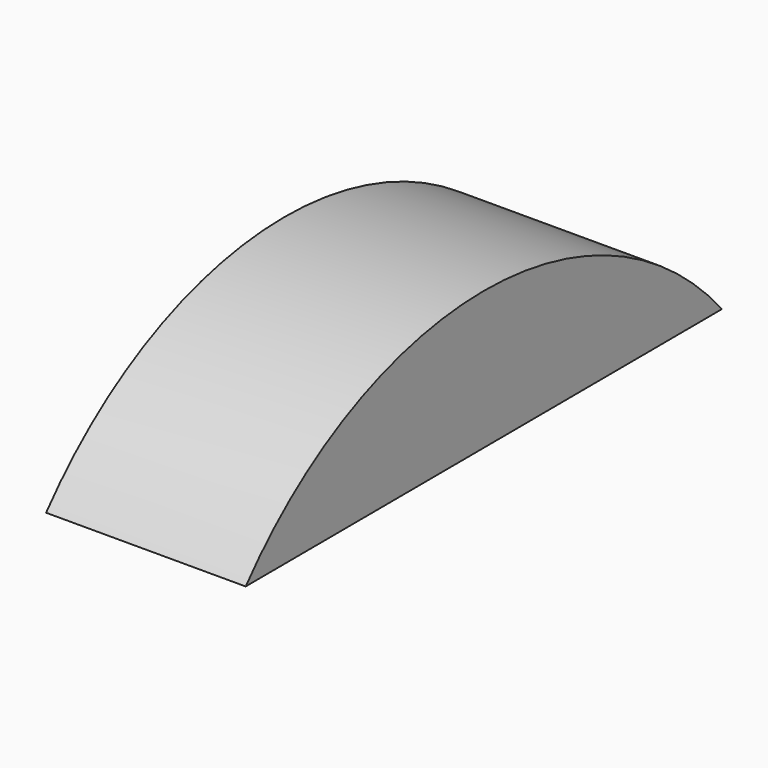
from build123d import *

# Parameters (mm, degrees)
F2_DEPTH = 50.8


with BuildPart() as f2:
    # F0 (on Right) → F2 (new body)
    with BuildSketch(Plane.YZ):
        with BuildLine():
            Line((0, 64.012718), (75.514749, 64.29112))
            ThreePointArc((75.514749, 64.29112), (-0.36563, 99.175056), (-75.986736, 63.732577))
            Line((-75.986736, 63.732577), (0, 64.012718))
        make_face()
    extrude(amount=F2_DEPTH)


solid = f2.part
